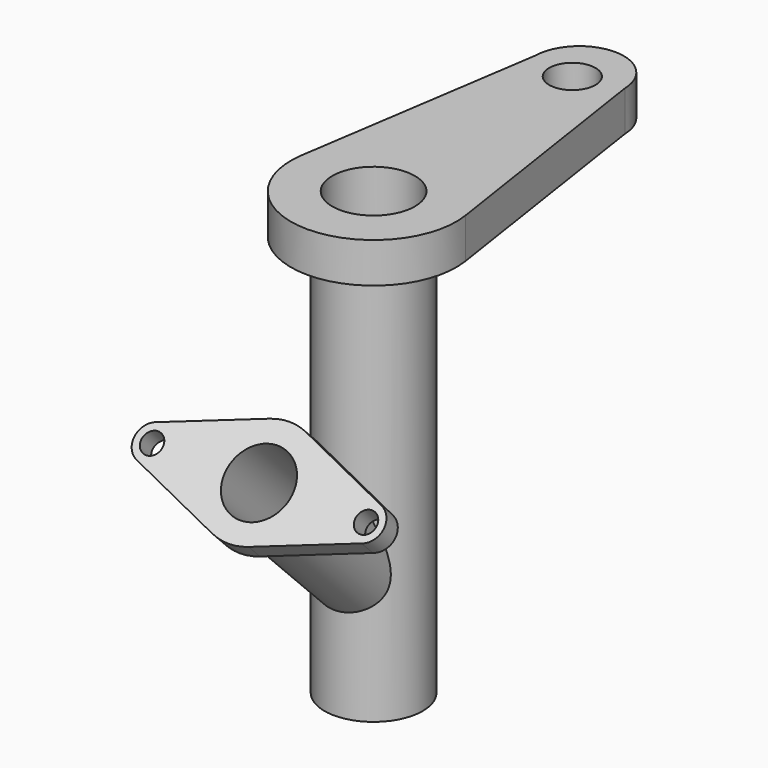
from build123d import *

# Parameters (mm, degrees)
SKETCH_R          = 12.236691
PAD_DEPTH         = 100
PAD001_DEPTH      = 10
SKETCH002_R       = 9.967721
PAD002_DEPTH      = 31
PAD002_DEPTH_BACK = -10
SKETCH003_R       = 2.654836
PAD003_DEPTH      = 5
SKETCH004_R       = 10.291555
SKETCH004_R_2     = 5.760448
POCKET_DEPTH      = 110.001
SKETCH005_R       = 8.252369
POCKET001_DEPTH   = 56


with BuildPart() as part:
    # Sketch → Pad (new body)
    with BuildSketch(Plane.XY):
        Circle(SKETCH_R)
    extrude(amount=PAD_DEPTH)

    # Sketch001 (on Face3 of Pad) → Pad001 (join)
    with BuildSketch(Plane.XY.offset(100)):
        with BuildLine():
            ThreePointArc((-20.361812, 3.080584), (0.000187, -20.593527), (20.361756, 3.080953))
            Line((11.095306, 64.322127), (20.361756, 3.080953))
            ThreePointArc((11.095306, 64.322127), (0.004574, 75.125929), (-11.095059, 64.33127))
            Line((-11.095059, 64.33127), (-20.361812, 3.080584))
        make_face()
    extrude(amount=PAD001_DEPTH)

    # Sketch002 (on DatumPlane) → Pad002 (join, two sides)
    with BuildSketch(Plane(origin=(0, -25, 50), x_dir=(-1, 0, 0), z_dir=(0, -0.707107, 0.707107))) as pad002_sk:
        Circle(SKETCH002_R)
    extrude(amount=-PAD002_DEPTH)
    extrude(pad002_sk.sketch, amount=-PAD002_DEPTH_BACK)

    # Sketch003 (on Face10 of Pad002) → Pad003 (join)
    with BuildSketch(Plane(origin=(0, -44.571068, 44.571068), x_dir=(1, 0, 0), z_dir=(0, -0.707107, 0.707107))):
        with BuildLine():
            ThreePointArc((4.5502, 30.252493), (0, 31.046218), (-4.5502, 30.252493))
            Line((-27.904433, 21.84908), (-4.5502, 30.252493))
            ThreePointArc((-27.904433, 21.84908), (-31.066679, 17.606865), (-27.904433, 13.36465))
            Line((-4.5502, 4.961238), (-27.904433, 13.36465))
            ThreePointArc((-4.5502, 4.961238), (0, 4.167512), (4.5502, 4.961238))
            Line((27.904433, 13.36465), (4.5502, 4.961238))
            ThreePointArc((27.904433, 13.36465), (31.066679, 17.606865), (27.904433, 21.84908))
            Line((4.5502, 30.252493), (27.904433, 21.84908))
        make_face()
        with Locations((-26.640049, 17.606865)):
            Circle(SKETCH003_R, mode=Mode.SUBTRACT)
        with Locations((26.640049, 17.606865)):
            Circle(SKETCH003_R, mode=Mode.SUBTRACT)
    extrude(amount=PAD003_DEPTH)

    # Sketch004 (on Face21 of Pad003) → Pocket (cut, through all)
    with BuildSketch(Plane.XY.offset(110)):
        Circle(SKETCH004_R)
        with Locations((0, 61.864815)):
            Circle(SKETCH004_R_2)
    extrude(amount=-POCKET_DEPTH, mode=Mode.SUBTRACT)

    # Sketch005 (on Face5 of Pocket) → Pocket001 (cut)
    with BuildSketch(Plane(origin=(0, -48.106602, 48.106602), x_dir=(1, 0, 0), z_dir=(0, -0.707107, 0.707107))):
        with Locations((0, 17.562706)):
            Circle(SKETCH005_R)
    extrude(amount=-POCKET001_DEPTH, mode=Mode.SUBTRACT)


solid = part.part
